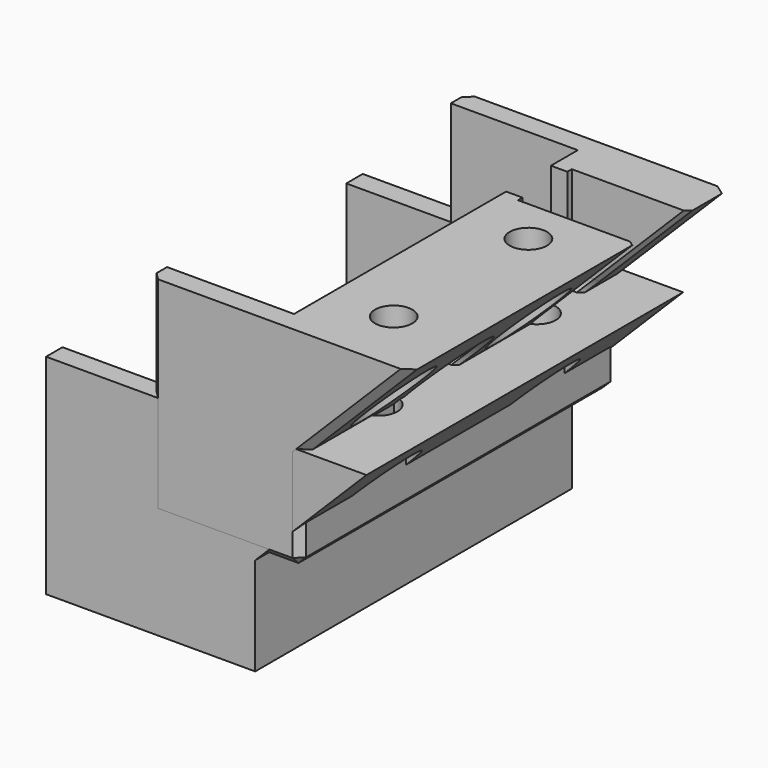
from build123d import *

# Parameters (mm, degrees)
SKETCH_W                = 28
SKETCH_H                = 53
PAD_DEPTH               = 28
SKETCH001_W             = 25
SKETCH001_H             = 47.5
POCKET_DEPTH            = 25
SKETCH002_R             = 20
POCKET001_DEPTH         = 5
PAD004_DEPTH            = 53
SKETCH011_R             = 4.5
POCKET006_DEPTH         = 10
SKETCH031_R             = 2.5
POCKET023_DEPTH         = 4.451
CHAMFER001_SIZE         = 1.75
BODY_PLACEMENT_ANGLE    = 180
SKETCH013_W             = 28
SKETCH013_H             = 53
PAD005_DEPTH            = 20
SKETCH014_W             = 25
SKETCH014_H             = 47.5
POCKET008_DEPTH         = 17
SKETCH028_R             = 6.5
POCKET024_DEPTH         = 6
PAD006_DEPTH            = 53
SKETCH032_R             = 4.5
POCKET025_DEPTH         = 16
SKETCH033_R             = 4.5
POCKET026_DEPTH         = 10
SKETCH034_R             = 2.5
POCKET027_DEPTH         = 5
CHAMFER_SIZE            = 1.75
CHAMFER002_SIZE         = 1
CHAMFER003_SIZE         = 1
CHAMFER004_SIZE         = 0.5
CHAMFER005_SIZE         = 0.5
BODY002_PLACEMENT_ANGLE = 90


with BuildPart() as right:
    # Sketch → Pad (new body)
    with BuildSketch(Plane.XY):
        Rectangle(SKETCH_W, SKETCH_H)
    extrude(amount=PAD_DEPTH)

    # Sketch001 (on Face5 of Pad) → Pocket (cut)
    with BuildSketch(Plane(origin=(0, 0, 0), x_dir=(1, 0, 0), z_dir=(0, 0, -1))):
        with Locations((-1.5, 0)):
            Rectangle(SKETCH001_W, SKETCH001_H)
    extrude(amount=-POCKET_DEPTH, mode=Mode.SUBTRACT)

    # Sketch002 (on Face7 of Pocket) → Pocket001 (cut)
    with BuildSketch(Plane.XY.offset(28)):
        with Locations((-14, -0.249323)):
            Circle(SKETCH002_R)
    extrude(amount=-POCKET001_DEPTH, mode=Mode.SUBTRACT)

    # Sketch010 (on Face9 of Pocket001) → Pad004 (join)
    with BuildSketch(Plane.XZ.offset(26.5)):
        Polygon((13.9, 0), (13.9, 15), (28.9, 0), align=None)
    extrude(amount=-PAD004_DEPTH)

    # Sketch011 (on DatumPlane) → Pocket006 (cut)
    with BuildSketch(Plane(origin=(14.45, 0, 14.45), x_dir=(1, 0, 0), z_dir=(0, 0, 1))):
        with Locations((5.5, 13.25)):
            Circle(SKETCH011_R)
        with Locations((5.5, -13.25)):
            Circle(SKETCH011_R)
    extrude(amount=-POCKET006_DEPTH, mode=Mode.SUBTRACT)

    # Sketch031 (on Face24 of Pocket006) → Pocket023 (cut, through all)
    with BuildSketch(Plane.XY.offset(4.45)):
        with Locations((19.95, 13.25)):
            Circle(SKETCH031_R)
        with Locations((19.95, -13.25)):
            Circle(SKETCH031_R)
    extrude(amount=-POCKET023_DEPTH, mode=Mode.SUBTRACT)

    # Chamfer001
    chamfer001_edges = [right.edges().sort_by_distance(p)[0] for p in [
        (17.45, -13.25, 4.45),
        (17.45, 13.25, 4.45),
    ]]
    chamfer(chamfer001_edges, length=CHAMFER001_SIZE)


with BuildPart() as right_1:
    # Body placement: moved
    add(right.part.rotate(Axis((0, 0, 0), (1, 0, 0)), BODY_PLACEMENT_ANGLE))


with BuildPart() as left:
    # Sketch013 → Pad005 (new body)
    with BuildSketch(Plane.XY):
        Rectangle(SKETCH013_W, SKETCH013_H)
    extrude(amount=PAD005_DEPTH)

    # Sketch014 (on Face5 of Pad005) → Pocket008 (cut)
    with BuildSketch(Plane(origin=(0, 0, 0), x_dir=(1, 0, 0), z_dir=(0, 0, -1))):
        with Locations((-1.5, 0)):
            Rectangle(SKETCH014_W, SKETCH014_H)
    extrude(amount=-POCKET008_DEPTH, mode=Mode.SUBTRACT)

    # Sketch028 → Pocket024 (cut)
    with BuildSketch(Plane(origin=(-14.298737, 0, 19.2), x_dir=(1, 0, 0), z_dir=(0, 0, 1))):
        with Locations((12.298737, -5.5)):
            Circle(SKETCH028_R)
        with BuildLine():
            ThreePointArc((6.989547, 11.75), (18.798737, 15.5), (6.989547, 19.25))
            Line((6.989547, 19.25), (0.298737, 19.25))
            Line((0.298737, 19.25), (0.298737, 11.75))
            Line((0.298737, 11.75), (6.989547, 11.75))
        make_face()
    extrude(amount=-POCKET024_DEPTH, mode=Mode.SUBTRACT)

    # Sketch016 → Pad006 (join)
    with BuildSketch(Plane.XZ.offset(26.5)):
        Polygon((-14, 19.9), (1, 19.9), (-14, 34.9), align=None)
    extrude(amount=-PAD006_DEPTH)

    # Sketch032 (on DatumPlane) → Pocket025 (cut)
    with BuildSketch(Plane(origin=(-14.298737, 0, 35.198737), x_dir=(1, 0, 0), z_dir=(0, 0, 1))):
        with Locations((12.298737, -5.5)):
            Circle(SKETCH032_R)
        with BuildLine():
            ThreePointArc((12.29871, 11), (16.798737, 15.5), (12.29871, 20))
            Line((12.29871, 20), (0.298737, 20))
            Line((0.298737, 20), (0.298737, 11))
            Line((0.298737, 11), (12.29871, 11))
        make_face()
    extrude(amount=-POCKET025_DEPTH, mode=Mode.SUBTRACT)

    # Sketch033 (on DatumPlane) → Pocket026 (cut)
    with BuildSketch(Plane(origin=(0.550505, 0, 20.349495), x_dir=(0, 0, -1), z_dir=(1, 0, 0))):
        with Locations((-5.150505, 4.856327)):
            Circle(SKETCH033_R)
        with Locations((-5.150505, -17.689302)):
            Circle(SKETCH033_R)
    extrude(amount=-POCKET026_DEPTH, mode=Mode.SUBTRACT)

    # Sketch034 (on Face37 of Pocket026) → Pocket027 (cut)
    with BuildSketch(Plane.YZ.offset(-9.449495)):
        with Locations((-17.689302, 25.5)):
            Circle(SKETCH034_R)
        with Locations((4.856327, 25.5)):
            Circle(SKETCH034_R)
    extrude(amount=-POCKET027_DEPTH, mode=Mode.SUBTRACT)

    # Chamfer
    chamfer_edges = [left.edges().sort_by_distance(p)[0] for p in [
        (-9.449495, 2.356327, 25.5),
        (-9.449495, -20.189302, 25.5),
    ]]
    chamfer(chamfer_edges, length=CHAMFER_SIZE)

    # Chamfer002
    chamfer002_edges = [left.edges().sort_by_distance(p)[0] for p in [
        (14, 0, 20),
        (14, 0, 0),
        (14, 26.5, 10),
        (14, -26.5, 10),
        (7.45, -26.5, 20),
        (7.45, 26.5, 20),
        (0, 26.5, 0),
        (0, -26.5, 0),
    ]]
    chamfer(chamfer002_edges, length=CHAMFER002_SIZE)

    # Chamfer003
    chamfer003_edges = [left.edges().sort_by_distance(p)[0] for p in [
        (-6.55, -26.5, 27.45),
        (-6.55, 26.5, 27.45),
    ]]
    chamfer(chamfer003_edges, length=CHAMFER003_SIZE)

    # Chamfer004
    chamfer004_edges = [left.edges().sort_by_distance(p)[0] for p in [
        (-6.5, -5.500212, 27.4),
        (2.080441, -7.397367, 20),
        (2.080441, -3.602633, 20),
    ]]
    chamfer(chamfer004_edges, length=CHAMFER004_SIZE)

    # Chamfer005
    chamfer005_edges = [left.edges().sort_by_distance(p)[0] for p in [
        (-0.49952, 19.742471, 21.39952),
        (2.5, 15.5, 20),
        (-0.49952, 11.257529, 21.39952),
        (-8.000014, 11, 28.900014),
        (-8.000014, 20, 28.900014),
    ]]
    chamfer(chamfer005_edges, length=CHAMFER005_SIZE)


with BuildPart() as left_1:
    # Body002 placement: moved
    add(left.part.rotate(Axis((0, 0, 0), (0, 1, 0)), BODY002_PLACEMENT_ANGLE))


solid = Compound([right_1.part, left_1.part])
